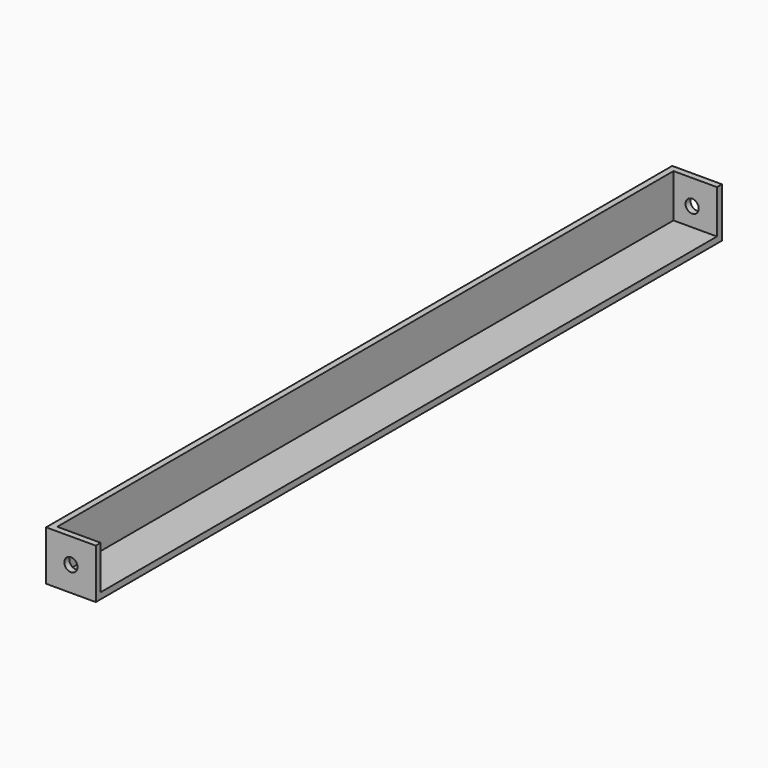
from build123d import *

# Parameters (mm, degrees)
F1_DEPTH = 400.05
F2_W     = 22.225
F2_H     = 22.225
F3_DEPTH = 3.175
F4_W     = 22.225
F4_H     = 22.225
F5_DEPTH = 3.175
F7_D     = 6.7564


with BuildPart() as f1:
    # F0 (on Front) → F1 (new body)
    with BuildSketch(Plane.XZ):
        Polygon((0, 25.4), (0, 0), (25.4, 0), (25.4, 3.175), (3.175, 3.175), (3.175, 25.4), align=None)
    extrude(amount=F1_DEPTH)

    # F2 (on face) → F3 (join)
    with BuildSketch(Plane.XZ.offset(400.05)):
        with Locations((14.2875, 14.2875)):
            Rectangle(F2_W, F2_H)
    extrude(amount=-F3_DEPTH)

    # F4 (on face) → F5 (join)
    with BuildSketch(Plane(origin=(0, 0, 0), x_dir=(-1, 0, 0), z_dir=(0, 1, 0))):
        with Locations((-14.2875, 14.2875)):
            Rectangle(F4_W, F4_H)
    extrude(amount=-F5_DEPTH)

    # F7 (through all)
    with Locations(Plane.XZ.offset(400.05)):
        with Locations((12.7, 12.7)):
            Hole(F7_D / 2)


solid = f1.part
